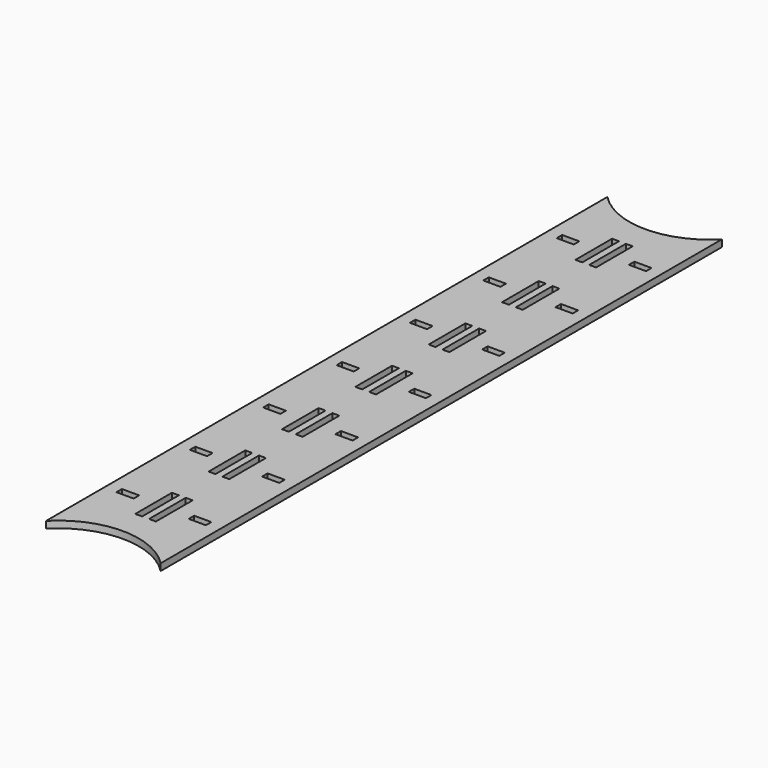
from build123d import *

# Parameters (mm, degrees)
F0_W     = 50
F0_H     = 280
F1_DEPTH = 3
F2_W     = 3
F2_H     = 20
F3_DEPTH = 25
F4_W     = 7.5
F4_H     = 3
F5_DEPTH = 25
F7_DEPTH = 3


with BuildPart() as f1:
    # F0 (on Top) → F1 (new body)
    with BuildSketch(Plane.XY):
        Rectangle(F0_W, F0_H)
    extrude(amount=F1_DEPTH)

    # F2 (on face) → F3 (cut)
    with BuildSketch(Plane.XY.offset(3)):
        with Locations((3, 120)):
            Rectangle(F2_W, F2_H)
        with Locations((3, 80)):
            Rectangle(F2_W, F2_H)
        with Locations((3, 40)):
            Rectangle(F2_W, F2_H)
        with Locations((3, 0)):
            Rectangle(F2_W, F2_H)
        with Locations((3, -40)):
            Rectangle(F2_W, F2_H)
        with Locations((3, -80)):
            Rectangle(F2_W, F2_H)
        with Locations((3, -120)):
            Rectangle(F2_W, F2_H)
        with Locations((-3, 120)):
            Rectangle(F2_W, F2_H)
        with Locations((-3, 80)):
            Rectangle(F2_W, F2_H)
        with Locations((-3, 40)):
            Rectangle(F2_W, F2_H)
        with Locations((-3, 0)):
            Rectangle(F2_W, F2_H)
        with Locations((-3, -40)):
            Rectangle(F2_W, F2_H)
        with Locations((-3, -80)):
            Rectangle(F2_W, F2_H)
        with Locations((-3, -120)):
            Rectangle(F2_W, F2_H)
    extrude(amount=-F3_DEPTH, mode=Mode.SUBTRACT)

    # F4 (on face) → F5 (cut)
    with BuildSketch(Plane.XY.offset(3)):
        with Locations((15.75, 120)):
            Rectangle(F4_W, F4_H)
        with Locations((15.75, 80)):
            Rectangle(F4_W, F4_H)
        with Locations((15.75, 40)):
            Rectangle(F4_W, F4_H)
        with Locations((15.75, 0)):
            Rectangle(F4_W, F4_H)
        with Locations((15.75, -40)):
            Rectangle(F4_W, F4_H)
        with Locations((15.75, -80)):
            Rectangle(F4_W, F4_H)
        with Locations((15.75, -120)):
            Rectangle(F4_W, F4_H)
        with Locations((-15.75, 120)):
            Rectangle(F4_W, F4_H)
        with Locations((-15.75, -80)):
            Rectangle(F4_W, F4_H)
        with Locations((-15.75, 40)):
            Rectangle(F4_W, F4_H)
        with Locations((-15.75, 80)):
            Rectangle(F4_W, F4_H)
        with Locations((-15.75, -40)):
            Rectangle(F4_W, F4_H)
        with Locations((-15.75, -120)):
            Rectangle(F4_W, F4_H)
        with Locations((-15.75, 0)):
            Rectangle(F4_W, F4_H)
    extrude(amount=-F5_DEPTH, mode=Mode.SUBTRACT)

    # F6 (on face) → F7 (join)
    with BuildSketch(Plane.XY.offset(3)):
        with BuildLine():
            ThreePointArc((25, 153.005103), (0, 142.5), (-25, 153.005103))
            Line((-25, 153.005103), (-25, 140))
            Line((-25, 140), (25, 140))
            Line((25, 140), (25, 153.005103))
        make_face()
        with BuildLine():
            Line((25, -140), (-25, -140))
            Line((-25, -140), (-25, -153.005103))
            ThreePointArc((-25, -153.005103), (0, -142.5), (25, -153.005103))
            Line((25, -153.005103), (25, -140))
        make_face()
    extrude(amount=-F7_DEPTH)


solid = f1.part
